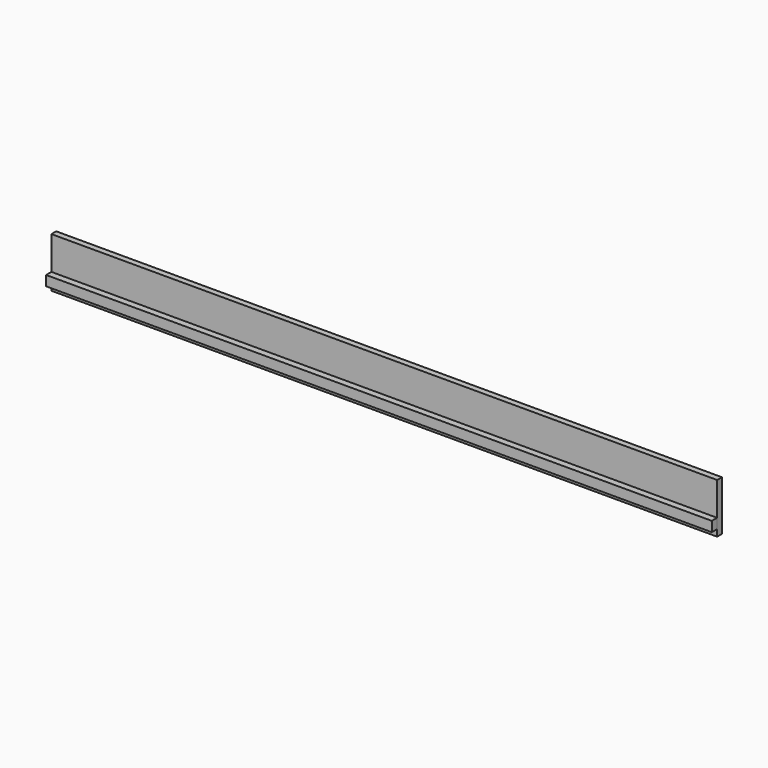
from build123d import *

# Parameters (mm, degrees)
F0_W     = 2000
F0_H     = 150
F1_DEPTH = 18
F2_W     = 20
F2_H     = 30
F3_DEPTH = 1000


with BuildPart() as f1:
    # F0 (on Front) → F1 (new body)
    with BuildSketch(Plane.XZ):
        with Locations((0, 75)):
            Rectangle(F0_W, F0_H)
    extrude(amount=-F1_DEPTH)


with BuildPart() as f3:
    # F2 (on Right) → F3 (new body, symmetric)
    with BuildSketch(Plane.YZ):
        with Locations((-10, 35)):
            Rectangle(F2_W, F2_H)
    extrude(amount=F3_DEPTH, both=True)


solid = Compound([f1.part, f3.part])
